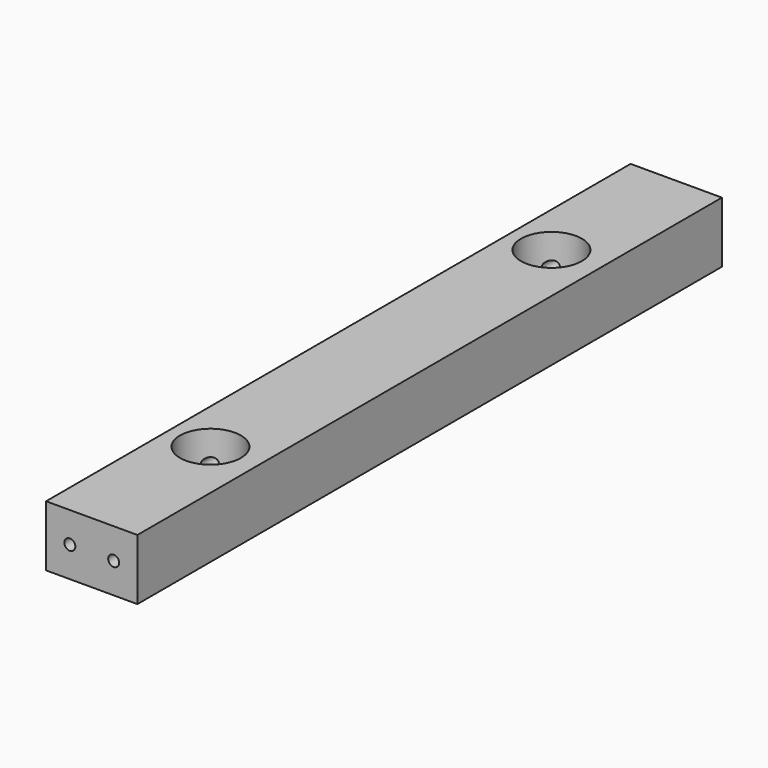
from build123d import *

# Parameters (mm, degrees)
F0_W     = 38.1
F0_H     = 25.4
F0_R     = 2.286
F1_DEPTH = 304.8
F2_R     = 12.7
F3_DEPTH = 25.401


with BuildPart() as f1:
    # F0 (on Front) → F1 (new body)
    with BuildSketch(Plane.XZ):
        with Locations((19.05, 12.7)):
            Rectangle(F0_W, F0_H)
        with Locations((9.906, 12.7)):
            Circle(F0_R, mode=Mode.SUBTRACT)
        with Locations((28.194, 12.7)):
            Circle(F0_R, mode=Mode.SUBTRACT)
    extrude(amount=F1_DEPTH)

    # F2 (on Top) → F3 (cut, through all)
    with BuildSketch(Plane.XY):
        with Locations((17.78, -241.3)):
            Circle(F2_R)
        with Locations((17.78, -63.5)):
            Circle(F2_R)
    extrude(amount=F3_DEPTH, mode=Mode.SUBTRACT)


solid = f1.part
